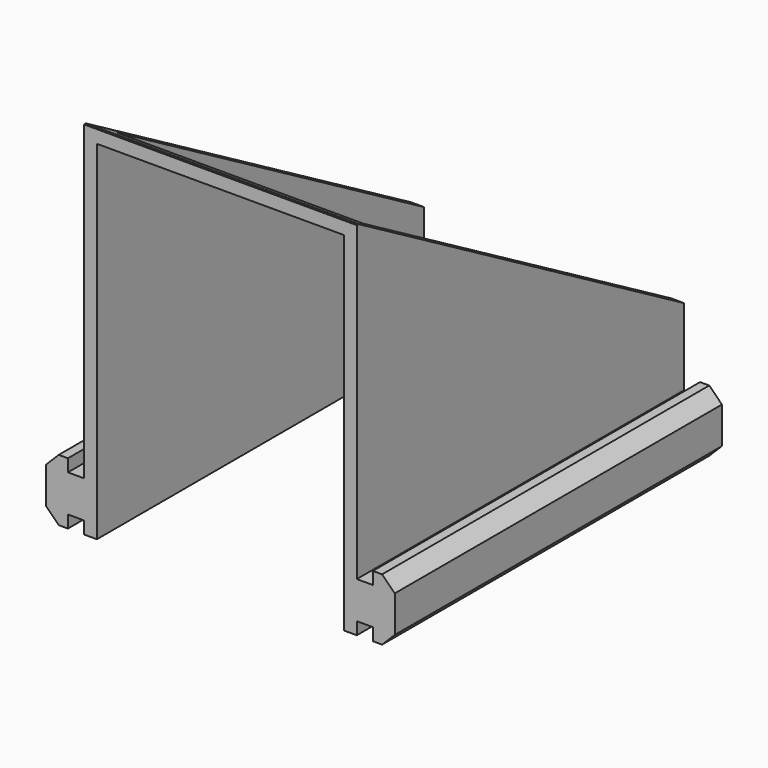
from build123d import *

# Parameters (mm, degrees)
SKETCH_W     = 2
SKETCH_H     = 46.5
SKETCH_W_2   = 38.408486
SKETCH_H_2   = 2
PAD_DEPTH    = 63.57
POCKET_DEPTH = 48.305243


with BuildPart() as part:
    # Sketch → Pad (new body)
    with BuildSketch(Plane.XZ):
        Polygon((-21.204243, 0), (-21.204243, 1.93), (-23.704243, 1.93), (-23.704243, 0), (-25.134243, 0), (-27.1, 1.965757), (-27.1, 7.655757), (-25.134243, 9.621514), (-23.704243, 9.621514), (-23.704243, 7.691514), (-21.204243, 7.691514), (-21.204243, 9.62), (-19.204243, 9.62), (-19.204243, 0), align=None)
        Polygon((19.204243, 9.62), (19.204243, 0), (21.204243, 0), (21.204243, 1.93), (23.704243, 1.93), (23.704243, 0), (25.134243, 0), (27.1, 1.965757), (27.1, 7.655757), (25.134243, 9.621514), (23.704243, 9.621514), (23.704243, 7.691514), (21.204243, 7.691514), (21.204243, 9.62), align=None)
        with Locations((20.204243, 32.87)):
            Rectangle(SKETCH_W, SKETCH_H)
        with Locations((-20.204243, 32.87)):
            Rectangle(SKETCH_W, SKETCH_H)
        with Locations((0, 55.12)):
            Rectangle(SKETCH_W_2, SKETCH_H_2)
    extrude(amount=PAD_DEPTH)

    # Sketch001 (on Face26 of Pad) → Pocket (cut, through all)
    with BuildSketch(Plane(origin=(-21.204243, 0, 0), x_dir=(0, 0, -1), z_dir=(-1, 0, 0))):
        Polygon((-19.62, 0), (-56.62, 64.08588), (-56.62, 0), align=None)
    extrude(amount=-POCKET_DEPTH, mode=Mode.SUBTRACT)


solid = part.part
